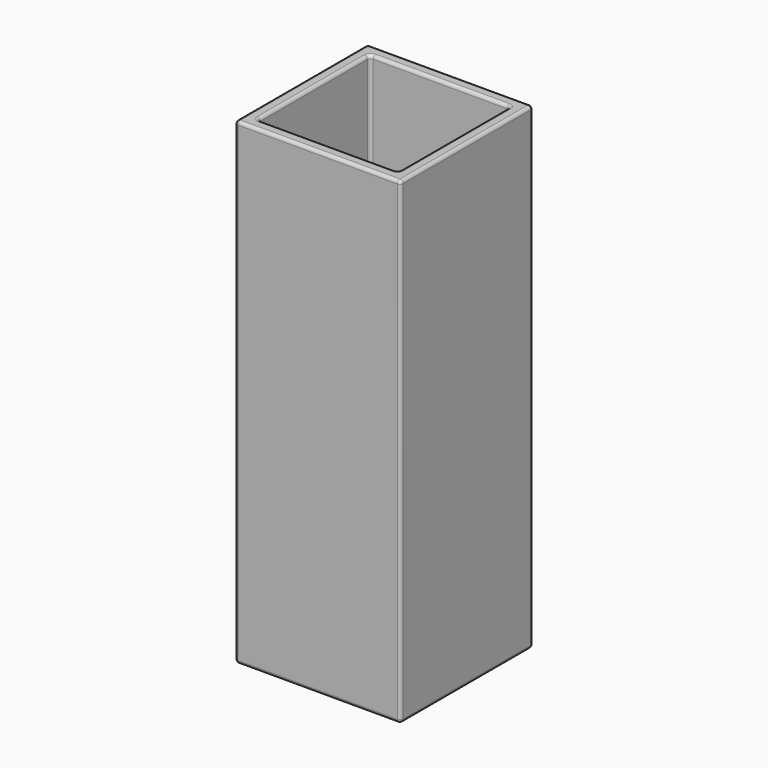
from build123d import *

# Parameters (mm, degrees)
F0_W     = 26
F0_H     = 26
F0_W_2   = 22
F0_H_2   = 22
F1_DEPTH = 75
F2_R     = 0.5


with BuildPart() as f1:
    # F0 (on Top) → F1 (new body)
    with BuildSketch(Plane.XY):
        Rectangle(F0_W, F0_H)
        Rectangle(F0_W_2, F0_H_2, mode=Mode.SUBTRACT)
    extrude(amount=F1_DEPTH)

    # F2
    f2_edges = [f1.edges().sort_by_distance(p)[0] for p in [
        (13, -13, 37.5),
        (13, 13, 37.5),
        (13, 0, 0),
        (13, 0, 75),
        (-13, 13, 37.5),
        (0, 13, 0),
        (0, 13, 75),
        (-13, -13, 37.5),
        (-13, 0, 0),
        (-13, 0, 75),
        (0, -13, 0),
        (0, -13, 75),
        (11, 11, 37.5),
        (11, -11, 37.5),
        (11, 0, 0),
        (11, 0, 75),
        (-11, -11, 37.5),
        (0, -11, 0),
        (0, -11, 75),
        (-11, 11, 37.5),
        (-11, 0, 0),
        (-11, 0, 75),
        (0, 11, 0),
        (0, 11, 75),
    ]]
    fillet(f2_edges, radius=F2_R)


solid = f1.part
